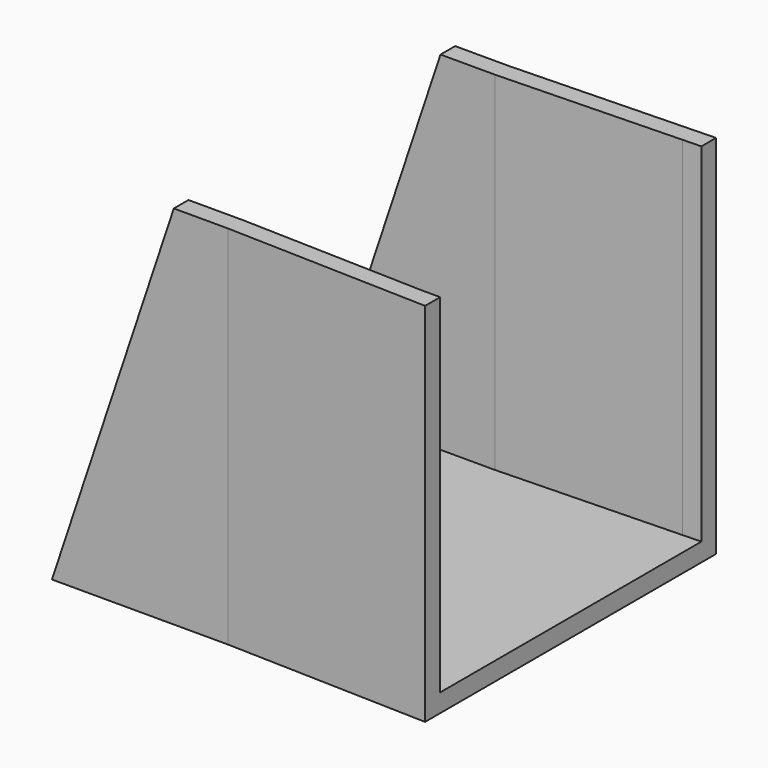
from build123d import *

# Parameters (mm, degrees)
F1_DEPTH = 5
F2_DEPTH = 100
F3_DEPTH = 2
F5_DEPTH = 96


with BuildPart() as f1:
    # F0 (on Top) → F1 (new body)
    with BuildSketch(Plane.XY):
        Polygon((49.977495, 44.5), (0, 43), (-50, 43), (-50, -43), (0, -43), (49.977495, -44.5), (54.977495, -44.5), (54.977495, 44.650068), align=None)
        Polygon((0, -8), (0, 8), (9.5, 8), (9.5, 0), (9.5, -8), align=None, mode=Mode.SUBTRACT)
    extrude(amount=F1_DEPTH)

    # F0 (on Top) → F2 (join)
    with BuildSketch(Plane.XY):
        Polygon((-50, 43), (0, 43), (49.977495, 44.5), (54.977495, 44.650068), (54.977495, 49.652319), (-0.075017, 48), (-55, 48), (-55, -48), (-0.075017, -48), (54.977495, -49.652319), (54.977495, -44.5), (49.977495, -44.5), (0, -43), (-50, -43), align=None)
    extrude(amount=F2_DEPTH)

    # F0 (on Top) → F3 (join)
    with BuildSketch(Plane.XY):
        Polygon((9.5, 8), (0, 8), (0, -8), (9.5, -8), (9.5, 0), align=None)
    extrude(amount=F3_DEPTH)

    # F4 (on face) → F5 (cut)
    with BuildSketch(Plane.XZ.offset(48)):
        Polygon((-55, 0), (-48.205912, 0), (-14.9364, 100), (-55, 100), align=None)
    extrude(amount=-F5_DEPTH, mode=Mode.SUBTRACT)


solid = f1.part
